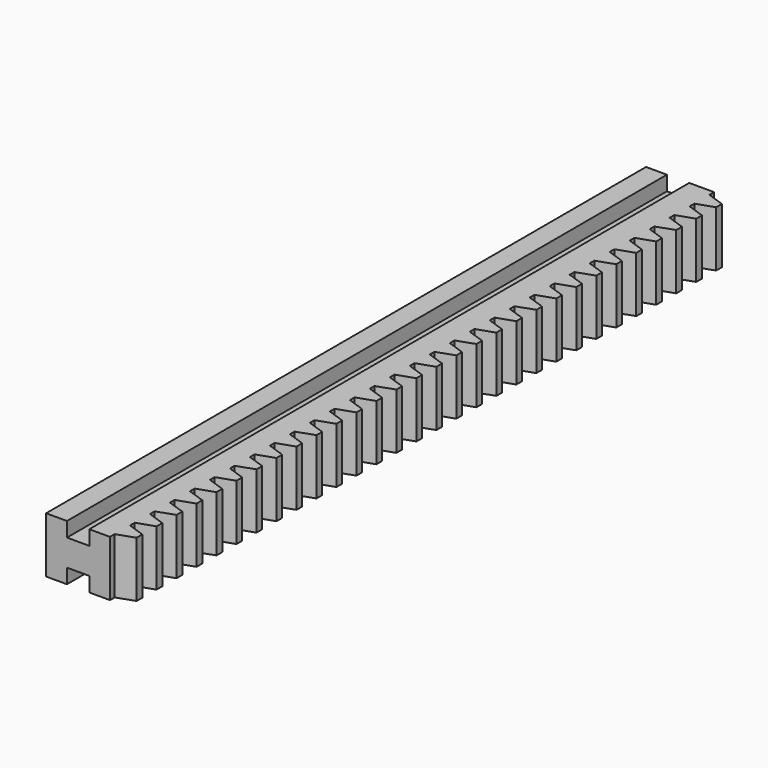
from build123d import *

# Parameters (mm, degrees)
F1_DEPTH = 8
F2_W     = 107.659508
F2_H     = 3.8
F3_DEPTH = 3.2
F4_W     = 107.659508
F4_H     = 2.1
F4_H_2   = 3.8
F5_DEPTH = 3


with BuildPart() as f1:
    # F0 (on Top) → F1 (new body)
    with BuildSketch(Plane.XY):
        Polygon((-7.657052, 11.823565), (-7.657052, 12.67053), (-11.247598, 12.67053), (-11.247598, -94.988978), (-8.276437, -94.988978), (-8.276437, -94.142013), (-5.812997, -93.292553), (-5.812997, -92.264038), (-8.255079, -91.421942), (-8.255079, -90.582077), (-5.791639, -89.732617), (-5.791639, -88.704102), (-8.233721, -87.862006), (-8.233721, -87.022141), (-5.770281, -86.172681), (-5.770281, -85.144166), (-8.212363, -84.30207), (-8.212363, -83.462205), (-5.748923, -82.612745), (-5.748923, -81.58423), (-8.191005, -80.742134), (-8.191005, -79.902269), (-5.727564, -79.052809), (-5.727564, -78.024294), (-8.169647, -77.182198), (-8.169647, -76.342334), (-5.706206, -75.492873), (-5.706206, -74.464358), (-8.148289, -73.622263), (-8.148289, -72.782398), (-5.684848, -71.932937), (-5.684848, -70.904422), (-8.126931, -70.062327), (-8.126931, -69.222462), (-5.66349, -68.373001), (-5.66349, -67.344486), (-8.105573, -66.502391), (-8.105573, -65.662526), (-5.642132, -64.813066), (-5.642132, -63.78455), (-8.084214, -62.942455), (-8.084214, -62.10259), (-5.620774, -61.25313), (-5.620774, -60.224614), (-8.062856, -59.382519), (-8.062856, -58.542654), (-5.599416, -57.693194), (-5.599416, -56.664678), (-8.041498, -55.822583), (-8.041498, -54.982718), (-5.578058, -54.133258), (-5.578058, -53.104742), (-8.02014, -52.262647), (-8.02014, -51.422782), (-5.5567, -50.573322), (-5.5567, -49.544806), (-7.998782, -48.702711), (-7.998782, -47.862846), (-5.535342, -47.013386), (-5.535342, -45.98487), (-7.977424, -45.142775), (-7.977424, -44.30291), (-5.513984, -43.45345), (-5.513984, -42.424935), (-7.956066, -41.582839), (-7.956066, -40.742974), (-5.492625, -39.893514), (-5.492625, -38.864999), (-7.934708, -38.022903), (-7.934708, -37.183038), (-5.471267, -36.333578), (-5.471267, -35.305063), (-7.91335, -34.462967), (-7.91335, -33.623102), (-5.449909, -32.773642), (-5.449909, -31.745127), (-7.891992, -30.903031), (-7.891992, -30.063166), (-5.428551, -29.213706), (-5.428551, -28.185191), (-7.870633, -27.343095), (-7.870633, -26.503231), (-5.407193, -25.65377), (-5.407193, -24.625255), (-7.849275, -23.783159), (-7.849275, -22.943295), (-5.385835, -22.093834), (-5.385835, -21.065319), (-7.827917, -20.223224), (-7.827917, -19.383359), (-5.364477, -18.533898), (-5.364477, -17.505383), (-7.806559, -16.663288), (-7.806559, -15.823423), (-5.343119, -14.973962), (-5.343119, -13.945447), (-7.785201, -13.103352), (-7.785201, -12.263487), (-5.321761, -11.414027), (-5.321761, -10.385511), (-7.763843, -9.543416), (-7.763843, -8.703551), (-5.300403, -7.854091), (-5.300403, -6.825575), (-7.742485, -5.98348), (-7.742485, -5.143615), (-5.279044, -4.294155), (-5.279044, -3.265639), (-7.721127, -2.423544), (-7.721127, -1.583679), (-5.257686, -0.734219), (-5.257686, 0.294297), (-7.699769, 1.136392), (-7.699769, 1.976257), (-5.236328, 2.825717), (-5.236328, 3.854233), (-7.678411, 4.696328), (-7.678411, 5.536193), (-5.21497, 6.385653), (-5.21497, 7.414169), (-7.657052, 8.256264), (-7.657052, 9.096129), (-5.193612, 9.945589), (-5.193612, 10.974104), align=None)
    extrude(amount=F1_DEPTH)

    # F2 (on face) → F3 (join)
    with BuildSketch(Plane(origin=(-11.247598, 0, 0), x_dir=(0, -1, 0), z_dir=(-1, 0, 0))):
        with Locations((41.159224, 4)):
            Rectangle(F2_W, F2_H)
    extrude(amount=F3_DEPTH)

    # F4 (on face) → F5 (join)
    with BuildSketch(Plane(origin=(-14.447598, 0, 0), x_dir=(0, -1, 0), z_dir=(-1, 0, 0))):
        with Locations((41.159224, 6.95)):
            Rectangle(F4_W, F4_H)
        with Locations((41.159224, 4)):
            Rectangle(F4_W, F4_H_2)
        with Locations((41.159224, 1.05)):
            Rectangle(F4_W, F4_H)
    extrude(amount=F5_DEPTH)


solid = f1.part
